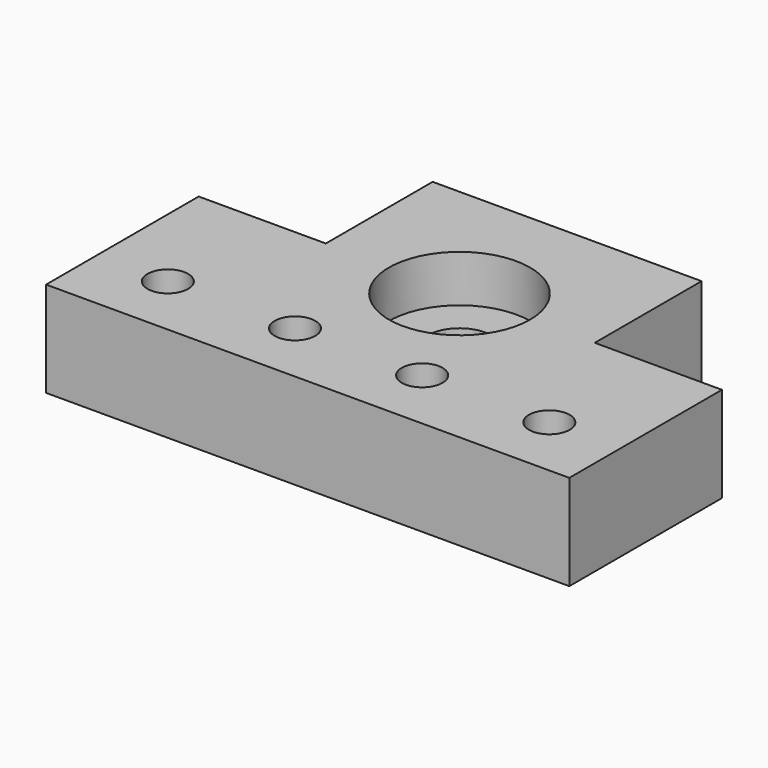
from build123d import *

# Parameters (mm, degrees)
SKETCH_R        = 5
SKETCH_R_2      = 3.2
PAD_DEPTH       = 15
SKETCH002_R     = 6.1
POCKET001_DEPTH = 4
SKETCH003_R     = 11.1
POCKET_DEPTH    = 7.4


with BuildPart() as part:
    # Sketch → Pad (new body)
    with BuildSketch(Plane.XY):
        Polygon((20, 30), (20, 51), (62.3, 51), (62.3, 30), (82.3, 30), (82.3, 0), (0, 0), (0, 30), align=None)
        with Locations((41.15, 29.85)):
            Circle(SKETCH_R, mode=Mode.SUBTRACT)
        with Locations((11.15, 10)):
            Circle(SKETCH_R_2, mode=Mode.SUBTRACT)
        with Locations((31.15, 10)):
            Circle(SKETCH_R_2, mode=Mode.SUBTRACT)
        with Locations((51.15, 10)):
            Circle(SKETCH_R_2, mode=Mode.SUBTRACT)
        with Locations((71.15, 10)):
            Circle(SKETCH_R_2, mode=Mode.SUBTRACT)
    extrude(amount=PAD_DEPTH)

    # Sketch002 → Pocket001 (cut)
    with BuildSketch(Plane(origin=(0, 0, 0), x_dir=(1, 0, 0), z_dir=(0, 0, -1))):
        with Locations((11.15, -10)):
            Circle(SKETCH002_R)
        with Locations((31.15, -10)):
            Circle(SKETCH002_R)
        with Locations((51.15, -10)):
            Circle(SKETCH002_R)
        with Locations((71.15, -10)):
            Circle(SKETCH002_R)
    extrude(amount=-POCKET001_DEPTH, mode=Mode.SUBTRACT)

    # Sketch003 (on Face5 of Pocket001) → Pocket (cut)
    with BuildSketch(Plane.XY.offset(15)):
        with Locations((41.15, 29.85)):
            Circle(SKETCH003_R)
    extrude(amount=-POCKET_DEPTH, mode=Mode.SUBTRACT)


solid = part.part
